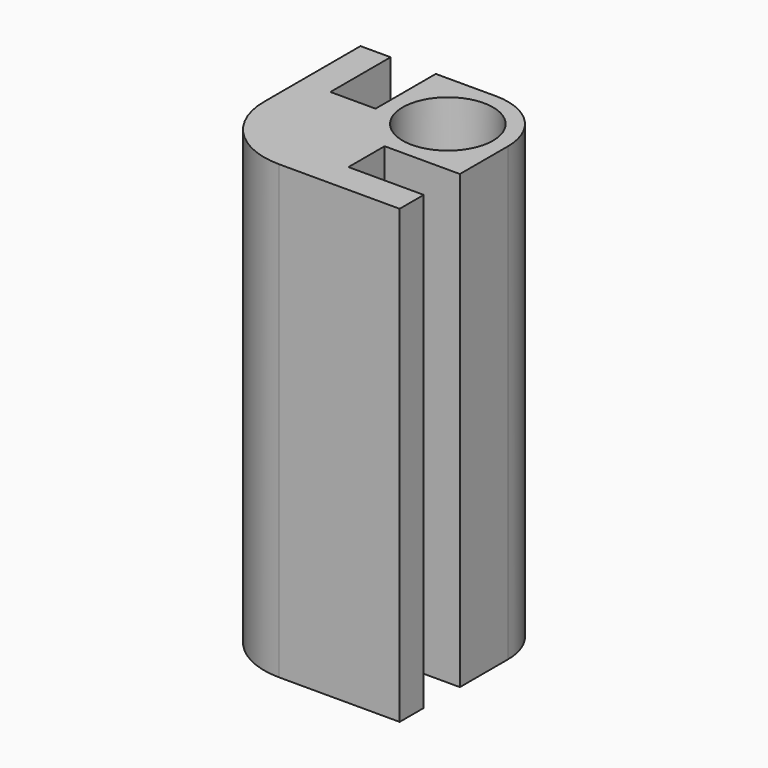
from build123d import *

# Parameters (mm, degrees)
F0_R     = 3
F1_DEPTH = 30
F0_R_2   = 1.75
F2_DEPTH = 26


with BuildPart() as f1:
    # F0 (on Top) → F1 (new body)
    with BuildSketch(Plane.XY):
        with BuildLine():
            ThreePointArc((-60, -64), (-57.1715728753, -62.8284271247), (-56, -60))
            ThreePointArc((-56, -60), (-57.1715728753, -57.1715728753), (-60, -56))
            ThreePointArc((-60, -56), (-62.8284271247, -57.1715728753), (-64, -60))
            ThreePointArc((-64, -60), (-62.8284271247, -62.8284271247), (-60, -64))
        make_face()
        with Locations((-60, -60)):
            Circle(F0_R, mode=Mode.SUBTRACT)
        with BuildLine():
            ThreePointArc((-64, -60), (-62.8284271247, -57.1715728753), (-60, -56))
            Line((-60, -56), (-64, -56))
            Line((-64, -56), (-64, -60))
        make_face()
        with BuildLine():
            Line((-61, -64), (-60, -64))
            ThreePointArc((-60, -64), (-62.8284271247, -62.8284271247), (-64, -60))
            Line((-64, -60), (-64, -61))
            Line((-64, -61), (-67, -61))
            Line((-67, -61), (-67, -56))
            Line((-67, -56), (-69, -56))
            Line((-69, -56), (-69, -64))
            ThreePointArc((-69, -64), (-67.5355339059, -67.5355339059), (-64, -69))
            Line((-64, -69), (-63.9991187476, -69))
            Line((-63.9991187476, -69), (-56, -69))
            Line((-56, -69), (-56, -67))
            Line((-56, -67), (-61, -67))
            Line((-61, -67), (-61, -64))
        make_face()
        with BuildLine():
            Line((-56, -64), (-56, -60))
            ThreePointArc((-56, -60), (-57.1715728753, -62.8284271247), (-60, -64))
            Line((-60, -64), (-56, -64))
        make_face()
    extrude(amount=F1_DEPTH)

    # F0 (on Top) → F2 (join)
    with BuildSketch(Plane.XY):
        with Locations((-60, -60)):
            Circle(F0_R)
        with Locations((-60, -60)):
            Circle(F0_R_2, mode=Mode.SUBTRACT)
    extrude(amount=F2_DEPTH)


solid = f1.part
